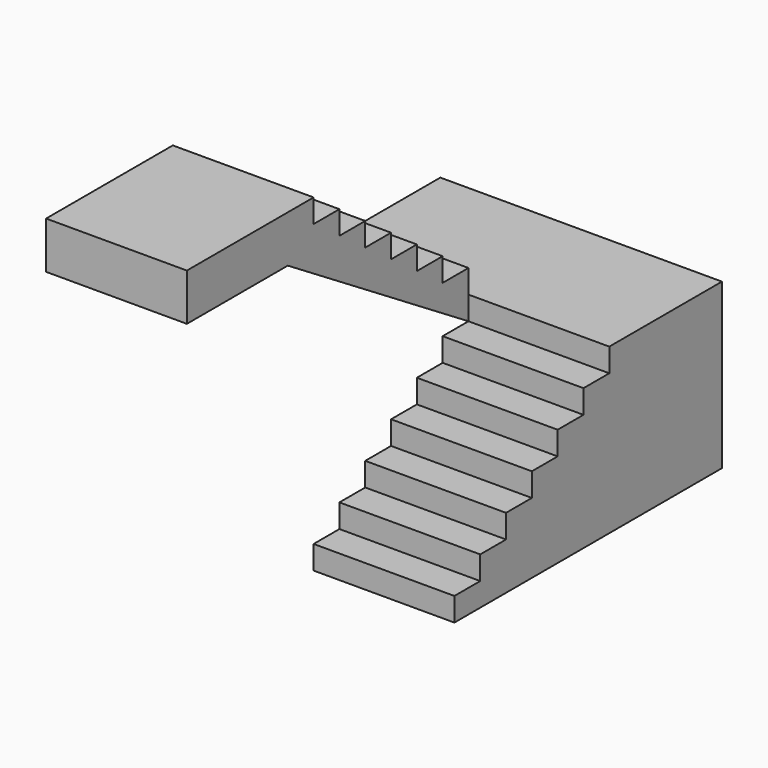
from build123d import *

# Parameters (mm, degrees)
F1_DEPTH = 1219.2
F2_W     = 1219.2
F2_H     = 203.2
F3_DEPTH = 1219.2
F5_DEPTH = 1219.2
F6_W     = 1219.2
F6_H     = 406.4
F7_DEPTH = 1092.2


with BuildPart() as f1:
    # F0 (on Right) → F1 (new body)
    with BuildSketch(Plane.YZ):
        Polygon((0, 203.2), (0, 0), (2895.6, 0), (2895.6, 1422.4), (1676.4, 1422.4), (1676.4, 1219.2), (1397, 1219.2), (1397, 1016), (1117.6, 1016), (1117.6, 812.8), (838.2, 812.8), (838.2, 609.6), (558.8, 609.6), (558.8, 406.4), (279.4, 406.4), (279.4, 203.2), align=None)
    extrude(amount=-F1_DEPTH)

    # F2 (on face) → F3 (join)
    with BuildSketch(Plane(origin=(-1219.2, 0, 0), x_dir=(0, -1, 0), z_dir=(-1, 0, 0))):
        with Locations((-2286, 1320.8)):
            Rectangle(F2_W, F2_H)
    extrude(amount=F3_DEPTH)

    # F4 (on face) → F5 (join, through all)
    with BuildSketch(Plane(origin=(-2438.4, 0, 0), x_dir=(0, -1, 0), z_dir=(-1, 0, 0))):
        Polygon((-1676.4, 1625.6), (-1676.4, 1219.2), (279.4, 2438.4), (279.4, 2844.8), (0, 2844.8), (0, 2641.6), (-279.4, 2641.6), (-279.4, 2438.4), (-558.8, 2438.4), (-558.8, 2235.2), (-838.2, 2235.2), (-838.2, 2032), (-1117.6, 2032), (-1117.6, 1828.8), (-1397, 1828.8), (-1397, 1625.6), align=None)
    extrude(amount=-F5_DEPTH)

    # F6 (on face) → F7 (join)
    with BuildSketch(Plane.XZ.offset(279.4)):
        with Locations((-1828.8, 2641.6)):
            Rectangle(F6_W, F6_H)
    extrude(amount=F7_DEPTH)


solid = f1.part
